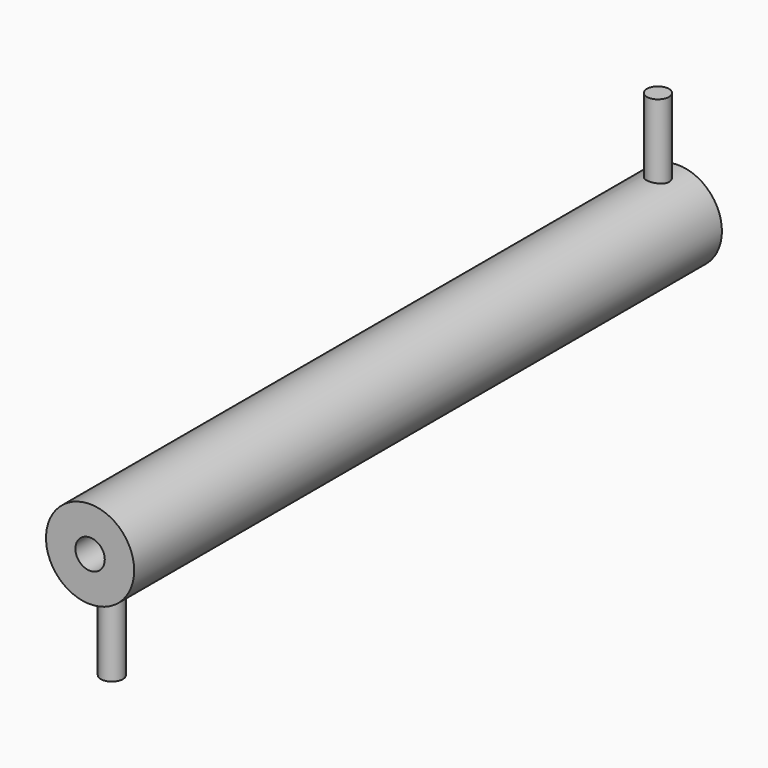
from build123d import *

# Parameters (mm, degrees)
F0_R     = 60
F2_DEPTH = 1000
F3_R     = 15
F4_DEPTH = 160
F5_R     = 15
F6_DEPTH = 160
F1_R     = 20
F7_DEPTH = 1000


with BuildPart() as f2:
    # F0 (on Front) → F2 (new body)
    with BuildSketch(Plane.XZ):
        Circle(F0_R)
    extrude(amount=F2_DEPTH)

    # F3 (on Top) → F4 (join)
    with BuildSketch(Plane.XY):
        with Locations((0, -33.885266772)):
            Circle(F3_R)
    extrude(amount=F4_DEPTH)

    # F5 (on Top) → F6 (join)
    with BuildSketch(Plane.XY):
        with Locations((0, -962.9562497139)):
            Circle(F5_R)
    extrude(amount=-F6_DEPTH)

    # F1 (on Front) → F7 (cut)
    with BuildSketch(Plane.XZ):
        Circle(F1_R)
    extrude(amount=F7_DEPTH, mode=Mode.SUBTRACT)


solid = f2.part
